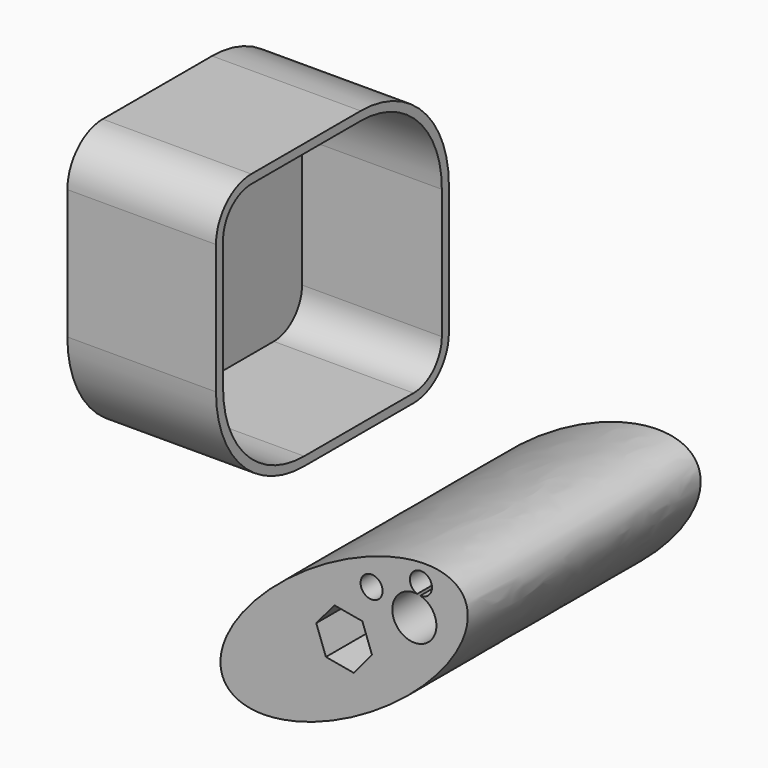
from build123d import *

# Parameters (mm, degrees)
F0_W     = 33.6954817176
F0_H     = 64.4131600857
F1_DEPTH = 66
F2_R     = 25
F3_R     = 10
F4_T     = -2
F5_R     = 3.5
F6_DEPTH = 65.4
F8_D     = 5
F9_D     = 10
F9_DEPTH = 12
F9_TIP   = 3.0043030951


with BuildPart() as f1:
    # F0 (on Front) → F1 (new body)
    with BuildSketch(Plane.XZ):
        Rectangle(F0_W, F0_H)
    extrude(amount=F1_DEPTH)

    # F2
    f2_edges = [f1.edges().sort_by_distance(p)[0] for p in [
        (0, -66, -32.20658),
        (0, 0, 32.20658),
    ]]
    fillet(f2_edges, radius=F2_R)

    # F3
    f3_edges = [f1.edges().sort_by_distance(p)[0] for p in [
        (0, -66, 32.20658),
        (0, 0, -32.20658),
    ]]
    fillet(f3_edges, radius=F3_R)

    # F4
    f4_openings = [f1.faces().sort_by_distance(p)[0] for p in [
        (16.847741, -33, 0),
    ]]
    offset(amount=F4_T, openings=f4_openings)


with BuildPart() as f1b:
    # F0 (on Front) → F1, piece 2 (new body)
    with BuildSketch(Plane.XZ):
        with BuildLine():
            add(Edge.make_bspline(
                [(72.905421257, -29.6448078007), (59.8738129685, -9.4772939426), (25.8725253616, -45.7419114581), (-8.1287622452, -82.0065289736), (38.9041336502, -65.9094253161), (85.9370295456, -49.8123216587), (72.905421257, -29.6448078007)],
                knots=[0, 0, 0, 2.0943951024, 2.0943951024, 4.1887902048, 4.1887902048, 6.2831853072, 6.2831853072, 6.2831853072], degree=2, weights=[1, 0.5, 1, 0.5, 1, 0.5, 1]))
        make_face()
        Polygon((48.0851386586, -53.1368590557), (41.7603964408, -52.0153455269), (39.5692845385, -45.9772013295), (43.702914854, -41.0605706609), (50.0276570718, -42.1820841897), (52.2187689741, -48.2202283871), align=None, mode=Mode.SUBTRACT)
    extrude(amount=F1_DEPTH)

    # F5 (on Right) → F6 (cut)
    with BuildSketch(Plane.YZ):
        with Locations((-57.0000037551, -64.099997282)):
            Circle(F5_R)
    extrude(amount=F6_DEPTH, mode=Mode.SUBTRACT)

    # F8 (through all)
    with Locations(Plane.XZ.offset(66)):
        with Locations((52.1225702891, -34.6712848094), (63.3120763173, -30.3359699597)):
            Hole(F8_D / 2)

    # F9
    with Locations(Plane.XZ.offset(66)):
        with Locations((61.8175439469, -37.6479944984)):
            Hole(F9_D / 2, depth=F9_DEPTH)
            with Locations((0, 0, -(F9_DEPTH + F9_TIP / 2))):  # 118° drill point
                Cone(0, F9_D / 2, F9_TIP, mode=Mode.SUBTRACT)


solid = Compound([f1.part, f1b.part])
